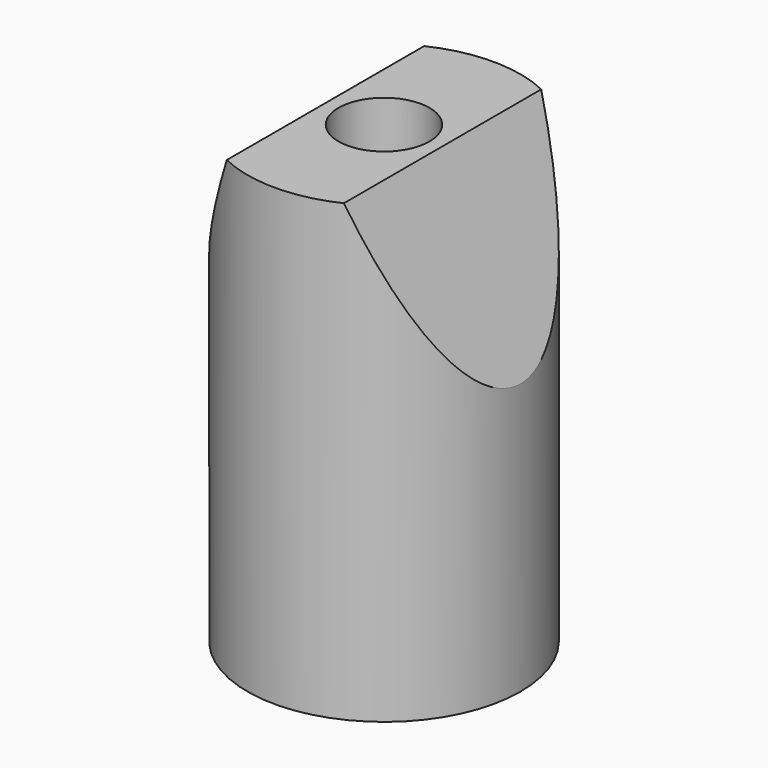
from build123d import *

# Parameters (mm, degrees)
F3_DEPTH = 12.5


with BuildPart() as f1:
    # F0 (on Front) → F1 (revolve)
    with BuildSketch(Plane.XZ):
        Polygon((5.6, 0), (7.5, 0), (7.5, 25), (2.5, 25), (2.5, 15), (5.6, 15), align=None)
    revolve(axis=Axis((0, 0, 15.520809), (0, 0, -1)))

    # F2 (on Front) → F3 (cut, symmetric)
    with BuildSketch(Plane.XZ):
        Polygon((-10, 9), (-3.216342, 24.981297), (3.216342, 24.981297), (10, 9), (10, 29), (-10, 29), align=None)
    extrude(amount=F3_DEPTH, both=True, mode=Mode.SUBTRACT)


solid = f1.part
